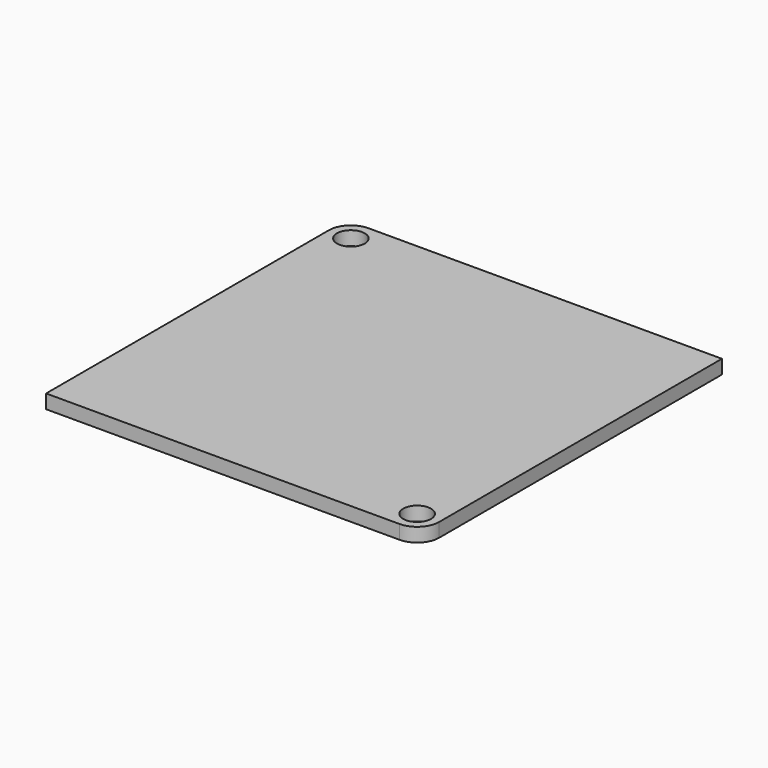
from build123d import *

# Parameters (mm, degrees)
F0_R     = 1.6
F1_DEPTH = 1.6


with BuildPart() as f1:
    # F0 (on Top) → F1 (new body)
    with BuildSketch(Plane.XY):
        with BuildLine():
            Line((21.59, 21.59), (-19.05, 21.59))
            ThreePointArc((-19.05, 21.59), (-20.846051, 20.846051), (-21.59, 19.05))
            Line((-21.59, 19.05), (-21.59, -21.59))
            Line((-21.59, -21.59), (19.05, -21.59))
            ThreePointArc((19.05, -21.59), (20.846051, -20.846051), (21.59, -19.05))
            Line((21.59, -19.05), (21.59, 21.59))
        make_face()
        with Locations((19.05, -19.05)):
            Circle(F0_R, mode=Mode.SUBTRACT)
        with Locations((-19.05, 19.05)):
            Circle(F0_R, mode=Mode.SUBTRACT)
    extrude(amount=-F1_DEPTH)


solid = f1.part
